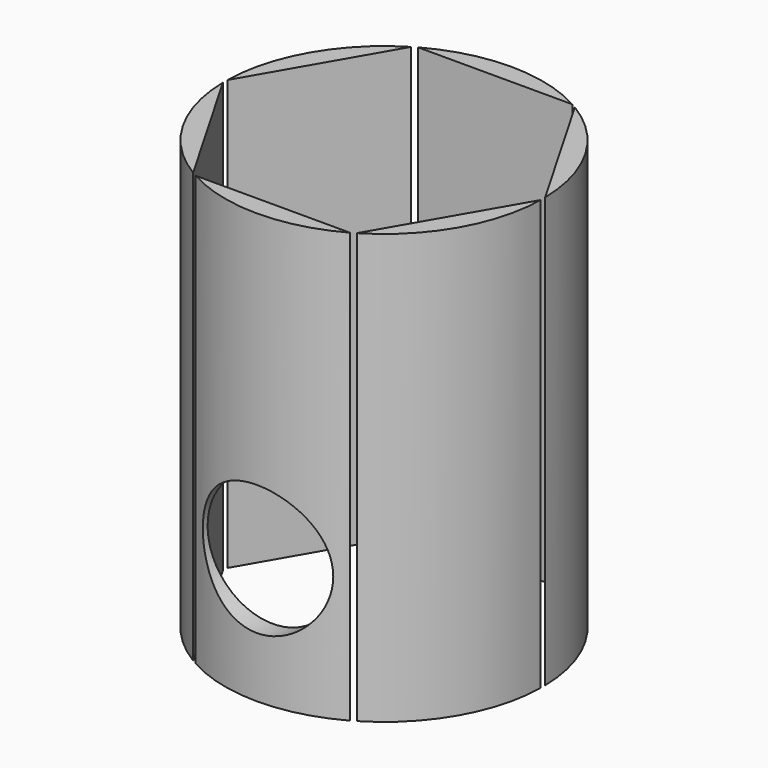
from build123d import *

# Parameters (mm, degrees)
SKETCH002_AS_DRAWN_R                      = 1.67
EXTRUDE002_DEPTH                          = 2
EXTRUDE002_DEPTH_BACK                     = 0.2
EXTRUDE002_ONTO_SKETCH002_PITCH_ANGLE     = -90
EXTRUDE002_ONTO_SKETCH002_PLACEMENT_ANGLE = -90
EXTRUDE001_DEPTH                          = 6.5
EXTRUDE001_DEPTH_BACK                     = 4.5
SKETCH_R                                  = 4.07
EXTRUDE_DEPTH                             = 6.5
EXTRUDE_DEPTH_BACK                        = 4.5


with BuildPart() as screw_cutout:
    # Sketch002 as drawn → Extrude002 (new, two sides)
    with BuildSketch(Plane.XY) as extrude002_sk:
        Circle(SKETCH002_AS_DRAWN_R)
    extrude(amount=EXTRUDE002_DEPTH)
    extrude(extrude002_sk.sketch, amount=-EXTRUDE002_DEPTH_BACK)


with BuildPart() as screw_cutout_1:
    # Extrude002 onto Sketch002 pitch: moved
    add(screw_cutout.part.rotate(Axis((0, 0, 0), (0, 1, 0)), EXTRUDE002_ONTO_SKETCH002_PITCH_ANGLE))


with BuildPart() as screw_cutout_2:
    # Extrude002 onto Sketch002 placement: moved
    add(screw_cutout_1.part.moved(Location((0, -3.896964, -1.289856))).rotate(Axis((0, -3.896964, -1.289856), (0, 0, 1)), EXTRUDE002_ONTO_SKETCH002_PLACEMENT_ANGLE))


with BuildPart() as extrude001:
    # Sketch001 → Extrude001 (new body, two sides)
    with BuildSketch(Plane.XY) as extrude001_sk:
        Polygon((4.11, 0), (2.055, 3.559364), (-2.055, 3.559364), (-4.11, 0), (-2.055, -3.559364), (2.055, -3.559364), align=None)
    extrude(amount=EXTRUDE001_DEPTH)
    extrude(extrude001_sk.sketch, amount=-EXTRUDE001_DEPTH_BACK)


with BuildPart() as cut001:
    # Sketch → Extrude (new body, two sides)
    with BuildSketch(Plane.XY) as extrude_sk:
        Circle(SKETCH_R)
    extrude(amount=EXTRUDE_DEPTH)
    extrude(extrude_sk.sketch, amount=-EXTRUDE_DEPTH_BACK)

    # Cut: cut Extrude001
    add(extrude001.part, mode=Mode.SUBTRACT)

    # Cut001: cut Screw cutout
    add(screw_cutout_2.part, mode=Mode.SUBTRACT)


solid = cut001.part
